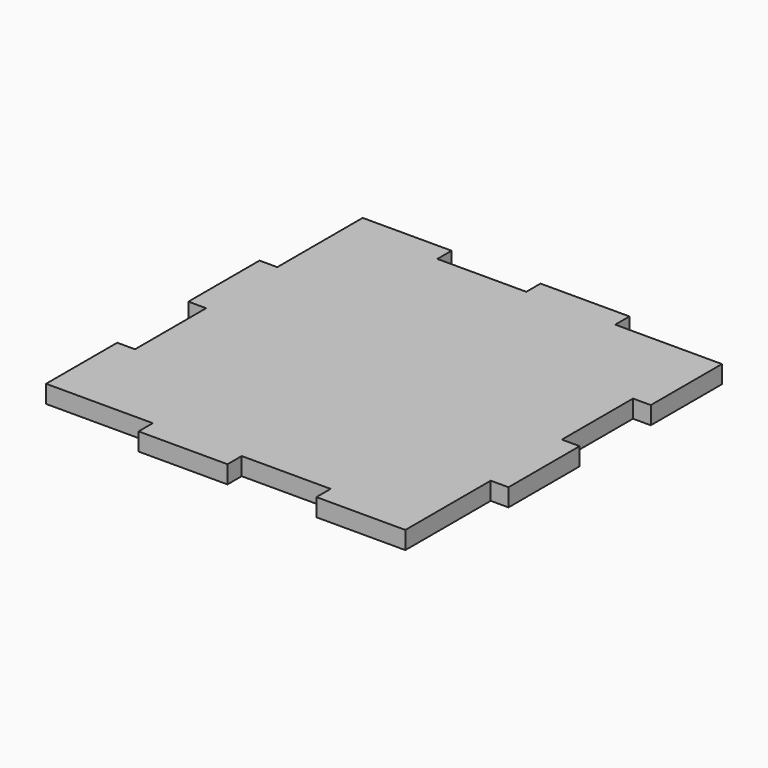
from build123d import *

# Parameters (mm, degrees)
F1_DEPTH = 5


with BuildPart() as f1:
    # F0 (on Top) → F1 (new body)
    with BuildSketch(Plane.XY):
        Polygon((0, 50), (-25, 50), (-25, 55), (-50, 55), (-50, 50), (-50, 25), (-55, 25), (-55, 0), (-50, 0), (-50, -25), (-55, -25), (-55, -50), (-50, -50), (-25, -50), (-25, -55), (0, -55), (0, -50), (25, -50), (25, -55), (50, -55), (50, -50), (50, -25), (55, -25), (55, 0), (50, 0), (50, 25), (55, 25), (55, 50), (50, 50), (25, 50), (25, 55), (0, 55), align=None)
    extrude(amount=F1_DEPTH)


solid = f1.part
